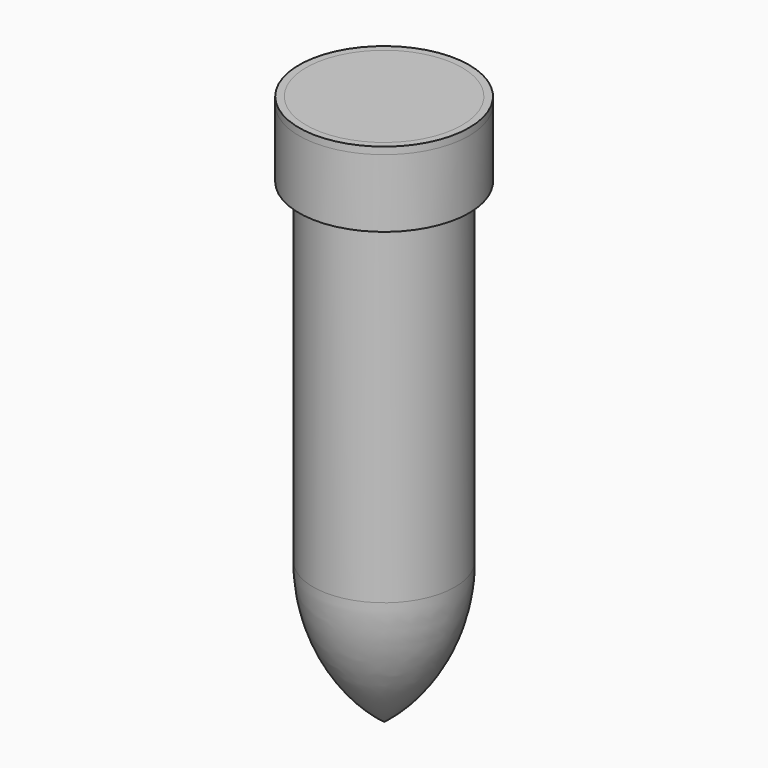
from build123d import *

# Parameters (mm, degrees)
F0_W   = 1.27
F0_H   = 12.1760693179
F0_W_2 = 0.508
F0_H_2 = 59.8236961528
F0_W_3 = 13.97
F0_H_3 = 1.27


with BuildPart() as f1:
    # F0 (on Front) → F1 (revolve)
    with BuildSketch(Plane.XZ):
        with Locations((1.905, 45.9177069778)):
            Rectangle(F0_W, F0_H)
    revolve(axis=Axis((-12.7, 0, 46.5527069778), (0, 0, 1)))


with BuildPart() as f2:
    # F0 (on Front) → F2 (revolve)
    with BuildSketch(Plane.XZ):
        with Locations((-0.254, 9.9178242424)):
            Rectangle(F0_W_2, F0_H_2)
    revolve(axis=Axis((-12.7, 0, 9.9178242424), (0, 0, -1)))

    # F0 (on Front) → F5 (revolve)
    with BuildSketch(Plane.XZ):
        with BuildLine():
            ThreePointArc((-12.7, -45.394023834), (-3.3519366858, -34.1930554912), (0, -19.994023834))
            Line((0, -19.994023834), (-0.508, -19.994023834))
            ThreePointArc((-0.508, -19.994023834), (-3.7212409836, -33.7944307846), (-12.7, -44.7560928914))
            Line((-12.7, -44.7560928914), (-12.7, -45.394023834))
        make_face()
    revolve(axis=Axis((-12.7, 0, -32.694023834), (0, 0, -1)))


with BuildPart() as f3:
    # F0 (on Front) → F3 (revolve)
    with BuildSketch(Plane.XZ):
        with Locations((-5.715, 52.6407416368)):
            Rectangle(F0_W_3, F0_H_3)
    revolve(axis=Axis((-12.7, 0, 46.5527069778), (0, 0, 1)))


with BuildPart() as f4:
    # F0 (on Front) → F4 (revolve)
    with BuildSketch(Plane.XZ):
        with Locations((1.905, 52.6407416368)):
            Rectangle(F0_W, F0_H_3)
    revolve(axis=Axis((-12.7, 0, 46.5527069778), (0, 0, 1)))


solid = Compound([f1.part, f2.part, f3.part, f4.part])
